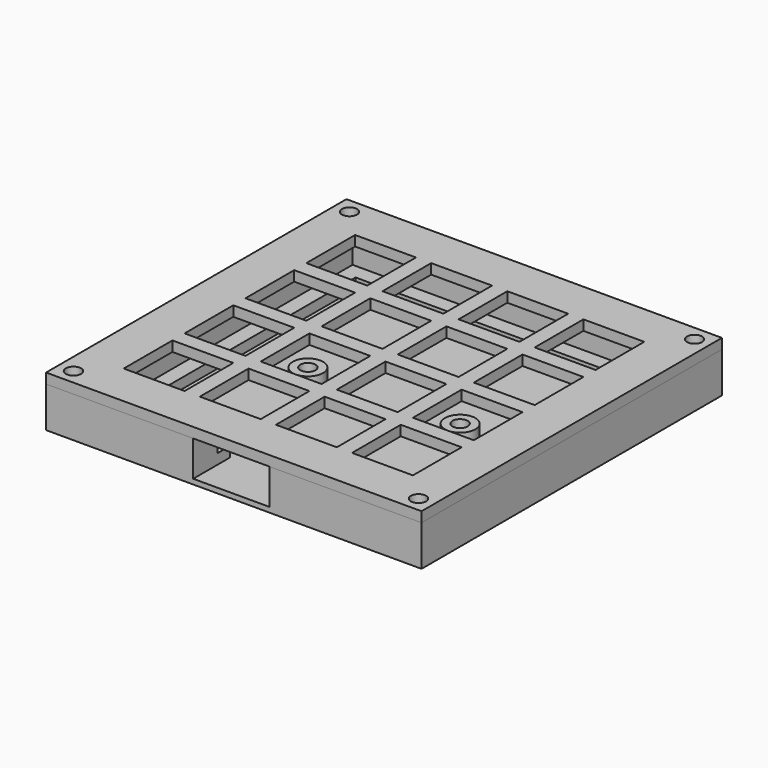
from build123d import *

# Parameters (mm, degrees)
F0_W      = 74
F0_H      = 74
F0_R      = 1.5
F0_W_2    = 62
F0_H_2    = 62
F1_DEPTH  = 8
F0_W_3    = 56
F0_H_3    = 56
F2_DEPTH  = 2
F0_R_2    = 3
F3_DEPTH  = 1
F4_DEPTH  = 3
F5_DEPTH  = 3
F7_R      = 1.5
F7_W      = 12
F7_H      = 6
F7_W_2    = 3
F7_H_2    = 2.5
F7_W_3    = 6
F7_H_3    = 3
F7_W_4    = 2.5
F7_H_4    = 12
F8_DEPTH  = 2
F9_R      = 1.5
F10_DEPTH = 2
F6_W      = 7.5
F6_H      = 9.0005761179
F11_DEPTH = 7


with BuildPart() as f1:
    # F0 (on Top) → F1 (new body)
    with BuildSketch(Plane.XY):
        Rectangle(F0_W, F0_H)
        with Locations((-34, -34)):
            Circle(F0_R, mode=Mode.SUBTRACT)
        with Locations((34, -34)):
            Circle(F0_R, mode=Mode.SUBTRACT)
        with Locations((-34, 34)):
            Circle(F0_R, mode=Mode.SUBTRACT)
        Rectangle(F0_W_2, F0_H_2, mode=Mode.SUBTRACT)
        with Locations((34, 34)):
            Circle(F0_R, mode=Mode.SUBTRACT)
    extrude(amount=F1_DEPTH)

    # F0 (on Top) → F2 (join)
    with BuildSketch(Plane.XY):
        Rectangle(F0_W_2, F0_H_2)
        Rectangle(F0_W_3, F0_H_3, mode=Mode.SUBTRACT)
    extrude(amount=F2_DEPTH)

    # F0 (on Top) → F3 (join)
    with BuildSketch(Plane.XY):
        Rectangle(F0_W_3, F0_H_3)
        with Locations((-15, 0)):
            Circle(F0_R_2, mode=Mode.SUBTRACT)
        with Locations((15, 0)):
            Circle(F0_R_2, mode=Mode.SUBTRACT)
    extrude(amount=F3_DEPTH)

    # F0 (on Top) → F4 (join)
    with BuildSketch(Plane.XY):
        with Locations((-15, 0)):
            Circle(F0_R_2)
        with Locations((-15, 0)):
            Circle(F0_R, mode=Mode.SUBTRACT)
        with Locations((15, 0)):
            Circle(F0_R_2)
        with Locations((15, 0)):
            Circle(F0_R, mode=Mode.SUBTRACT)
    extrude(amount=F4_DEPTH)

    # F0 (on Top) → F5 (join)
    with BuildSketch(Plane.XY):
        Rectangle(F0_W_2, F0_H_2)
        Rectangle(F0_W_3, F0_H_3, mode=Mode.SUBTRACT)
    extrude(amount=F5_DEPTH)

    # F6 (on face) → F11 (cut)
    with BuildSketch(Plane.XY.offset(8)):
        with Locations((3.25, -32.500288059)):
            Rectangle(F6_W, F6_H)
        with Locations((-4.25, -32.500288059)):
            Rectangle(F6_W, F6_H)
    extrude(amount=-F11_DEPTH, mode=Mode.SUBTRACT)


with BuildPart() as f8:
    # F7 (on face) → F8 (new body)
    with BuildSketch(Plane.XY.offset(8)):
        Polygon((-16.5, 37), (-37, 37), (-37, 16.5), (-31, 16.5), (-31, 31), (-16.5, 31), align=None)
        with Locations((-34, 34)):
            Circle(F7_R, mode=Mode.SUBTRACT)
        with Locations((-7.5, 34)):
            Rectangle(F7_W, F7_H)
        with Locations((-15, 34)):
            Rectangle(F7_W_2, F7_H)
        with Locations((0, 34)):
            Rectangle(F7_W_2, F7_H)
        with Locations((7.5, 34)):
            Rectangle(F7_W, F7_H)
        with Locations((15, 34)):
            Rectangle(F7_W_2, F7_H)
        Polygon((37, 37), (16.5, 37), (16.5, 31), (31, 31), (31, 16.5), (37, 16.5), align=None)
        with Locations((34, 34)):
            Circle(F7_R, mode=Mode.SUBTRACT)
        Polygon((31, 31), (16.5, 31), (16.5, 28.5), (28.5, 28.5), (28.5, 16.5), (31, 16.5), align=None)
        with Locations((15, 29.75)):
            Rectangle(F7_W_2, F7_H_2)
        with Locations((7.5, 29.75)):
            Rectangle(F7_W, F7_H_2)
        with Locations((0, 29.75)):
            Rectangle(F7_W_2, F7_H_2)
        with Locations((-7.5, 29.75)):
            Rectangle(F7_W, F7_H_2)
        with Locations((-15, 29.75)):
            Rectangle(F7_W_2, F7_H_2)
        Polygon((-16.5, 28.5), (-16.5, 31), (-31, 31), (-31, 16.5), (-28.5, 16.5), (-28.5, 28.5), align=None)
        with Locations((-34, 15)):
            Rectangle(F7_W_3, F7_H_3)
        with Locations((-29.75, 15)):
            Rectangle(F7_W_4, F7_H_3)
        with Locations((-34, 0)):
            Rectangle(F7_W_3, F7_H_3)
        with Locations((-29.75, 0)):
            Rectangle(F7_W_4, F7_H_3)
        with Locations((-34, 7.5)):
            Rectangle(F7_W_3, F7_H_4)
        with Locations((-29.75, 7.5)):
            Rectangle(F7_W_4, F7_H_4)
        with Locations((-34, -7.5)):
            Rectangle(F7_W_3, F7_H_4)
        with Locations((-29.75, -7.5)):
            Rectangle(F7_W_4, F7_H_4)
        with Locations((-34, -15)):
            Rectangle(F7_W_3, F7_H_3)
        with Locations((-29.75, -15)):
            Rectangle(F7_W_4, F7_H_3)
        Polygon((-31, -16.5), (-37, -16.5), (-37, -37), (-16.5, -37), (-16.5, -31), (-31, -31), align=None)
        with Locations((-34, -34)):
            Circle(F7_R, mode=Mode.SUBTRACT)
        Polygon((-28.5, -16.5), (-31, -16.5), (-31, -31), (-16.5, -31), (-16.5, -28.5), (-28.5, -28.5), align=None)
        with Locations((-15, -34)):
            Rectangle(F7_W_2, F7_H)
        with Locations((-15, -29.75)):
            Rectangle(F7_W_2, F7_H_2)
        with Locations((0, -34)):
            Rectangle(F7_W_2, F7_H)
        with Locations((15, -34)):
            Rectangle(F7_W_2, F7_H)
        with Locations((15, -29.75)):
            Rectangle(F7_W_2, F7_H_2)
        Polygon((37, -37), (37, -16.5), (31, -16.5), (31, -31), (16.5, -31), (16.5, -37), align=None)
        with Locations((34, -34)):
            Circle(F7_R, mode=Mode.SUBTRACT)
        with Locations((34, -34)):
            Circle(F7_R)
        Polygon((31, -31), (31, -16.5), (28.5, -16.5), (28.5, -28.5), (16.5, -28.5), (16.5, -31), align=None)
        with Locations((34, -15)):
            Rectangle(F7_W_3, F7_H_3)
        with Locations((29.75, -15)):
            Rectangle(F7_W_4, F7_H_3)
        with Locations((34, -7.5)):
            Rectangle(F7_W_3, F7_H_4)
        with Locations((29.75, -7.5)):
            Rectangle(F7_W_4, F7_H_4)
        with Locations((29.75, 0)):
            Rectangle(F7_W_4, F7_H_3)
        with Locations((34, 0)):
            Rectangle(F7_W_3, F7_H_3)
        with Locations((34, 7.5)):
            Rectangle(F7_W_3, F7_H_4)
        with Locations((29.75, 7.5)):
            Rectangle(F7_W_4, F7_H_4)
        with Locations((34, 15)):
            Rectangle(F7_W_3, F7_H_3)
        with Locations((29.75, 15)):
            Rectangle(F7_W_4, F7_H_3)
        with Locations((22.5, 15)):
            Rectangle(F7_W, F7_H_3)
        with Locations((15, 22.5)):
            Rectangle(F7_W_2, F7_H_4)
        with Locations((15, 15)):
            Rectangle(F7_W_2, F7_H_3)
        with Locations((-22.5, 15)):
            Rectangle(F7_W, F7_H_3)
        with Locations((-15, 22.5)):
            Rectangle(F7_W_2, F7_H_4)
        with Locations((-15, 15)):
            Rectangle(F7_W_2, F7_H_3)
        with Locations((-7.5, 15)):
            Rectangle(F7_W, F7_H_3)
        with Locations((0, 22.5)):
            Rectangle(F7_W_2, F7_H_4)
        with Locations((0, 15)):
            Rectangle(F7_W_2, F7_H_3)
        with Locations((-22.5, 0)):
            Rectangle(F7_W, F7_H_3)
        with Locations((-15, 0)):
            Rectangle(F7_W_2, F7_H_3)
        with Locations((-7.5, 0)):
            Rectangle(F7_W, F7_H_3)
        Rectangle(F7_W_2, F7_H_3)
        with Locations((7.5, 0)):
            Rectangle(F7_W, F7_H_3)
        with Locations((15, 0)):
            Rectangle(F7_W_2, F7_H_3)
        with Locations((22.5, 0)):
            Rectangle(F7_W, F7_H_3)
        with Locations((7.5, 15)):
            Rectangle(F7_W, F7_H_3)
        with Locations((15, 7.5)):
            Rectangle(F7_W_2, F7_H_4)
        with Locations((0, 7.5)):
            Rectangle(F7_W_2, F7_H_4)
        with Locations((-15, 7.5)):
            Rectangle(F7_W_2, F7_H_4)
        with Locations((-22.5, -15)):
            Rectangle(F7_W, F7_H_3)
        with Locations((-15, -22.5)):
            Rectangle(F7_W_2, F7_H_4)
        with Locations((-15, -15)):
            Rectangle(F7_W_2, F7_H_3)
        with Locations((0, -22.5)):
            Rectangle(F7_W_2, F7_H_4)
        with Locations((0, -15)):
            Rectangle(F7_W_2, F7_H_3)
        with Locations((7.5, -15)):
            Rectangle(F7_W, F7_H_3)
        with Locations((-7.5, -15)):
            Rectangle(F7_W, F7_H_3)
        with Locations((15, -22.5)):
            Rectangle(F7_W_2, F7_H_4)
        with Locations((15, -15)):
            Rectangle(F7_W_2, F7_H_3)
        with Locations((22.5, -15)):
            Rectangle(F7_W, F7_H_3)
        with Locations((15, -7.5)):
            Rectangle(F7_W_2, F7_H_4)
        with Locations((0, -7.5)):
            Rectangle(F7_W_2, F7_H_4)
        with Locations((-15, -7.5)):
            Rectangle(F7_W_2, F7_H_4)
        with Locations((-34, -34)):
            Circle(F7_R)
        with Locations((-34, 34)):
            Circle(F7_R)
        with Locations((34, 34)):
            Circle(F7_R)
        with Locations((-7.5, -34)):
            Rectangle(F7_W, F7_H)
        with Locations((7.5, -34)):
            Rectangle(F7_W, F7_H)
        with Locations((7.5, -29.75)):
            Rectangle(F7_W, F7_H_2)
        with Locations((0, -29.75)):
            Rectangle(F7_W_2, F7_H_2)
        with Locations((-7.5, -29.75)):
            Rectangle(F7_W, F7_H_2)
    extrude(amount=F8_DEPTH)

    # F9 (on face) → F10 (cut)
    with BuildSketch(Plane.XY.offset(10)):
        with Locations((-34, -34)):
            Circle(F9_R)
        with Locations((34, -34)):
            Circle(F9_R)
        with Locations((34, 34)):
            Circle(F9_R)
        with Locations((-34, 34)):
            Circle(F9_R)
    extrude(amount=-F10_DEPTH, mode=Mode.SUBTRACT)


solid = Compound([f1.part, f8.part])
